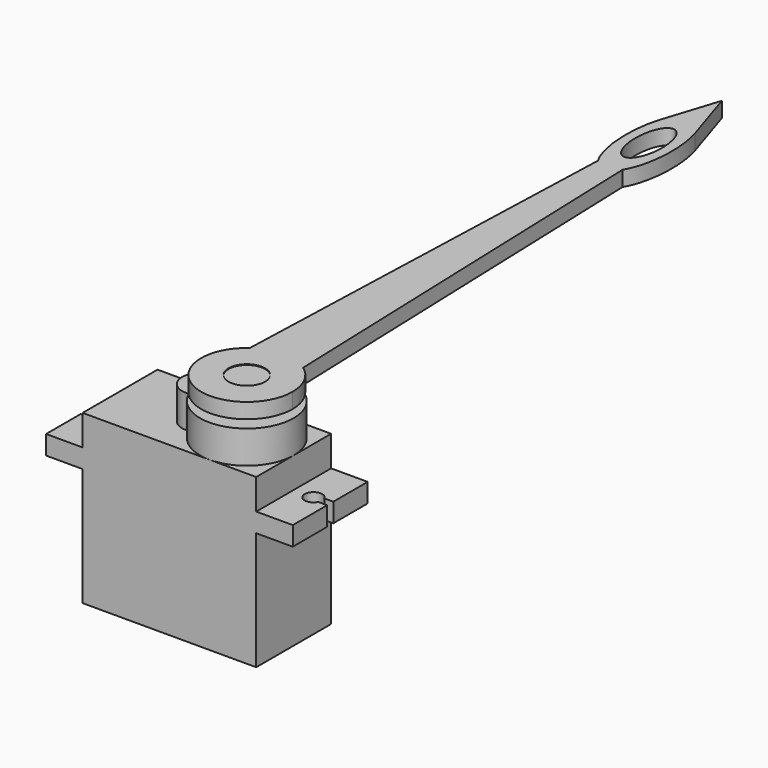
from build123d import *

# Parameters (mm, degrees)
F0_W      = 22.8
F0_H      = 12.3
F1_DEPTH  = 18
F3_DEPTH  = 2.5
F4_W      = 22.8
F4_H      = 12.3
F5_DEPTH  = 4
F7_DEPTH  = 4.3
F8_R      = 2.4
F9_DEPTH  = 2.9
F11_R     = 2.4
F12_DEPTH = 2


with BuildPart() as f1:
    # F0 (on Top) → F1 (new body)
    with BuildSketch(Plane.XY):
        with Locations((11.4, 6.15)):
            Rectangle(F0_W, F0_H)
    extrude(amount=F1_DEPTH)

    # F2 (on face) → F3 (join)
    with BuildSketch(Plane.XY.offset(18)):
        with BuildLine():
            Line((22.8, 12.3), (0, 12.3))
            Line((0, 12.3), (-4.8, 12.3))
            Line((-4.8, 12.3), (-4.8, 6.65))
            Line((-4.8, 6.65), (-3.6356157589, 6.65))
            ThreePointArc((-3.6356157589, 6.65), (-1.45, 6.15), (-3.6356157589, 5.65))
            Line((-3.6356157589, 5.65), (-4.8, 5.65))
            Line((-4.8, 5.65), (-4.8, 0))
            Line((-4.8, 0), (0, 0))
            Line((0, 0), (22.8, 0))
            Line((22.8, 0), (27.6, 0))
            Line((27.6, 0), (27.6, 5.65))
            Line((27.6, 5.65), (26.4356157589, 5.65))
            ThreePointArc((26.4356157589, 5.65), (24.25, 6.15), (26.4356157589, 6.65))
            Line((26.4356157589, 6.65), (27.6, 6.65))
            Line((27.6, 6.65), (27.6, 12.3))
            Line((27.6, 12.3), (22.8, 12.3))
        make_face()
    extrude(amount=-F3_DEPTH)

    # F4 (on face) → F5 (join)
    with BuildSketch(Plane.XY.offset(18)):
        with Locations((11.4, 6.15)):
            Rectangle(F4_W, F4_H)
    extrude(amount=F5_DEPTH)

    # F6 (on face) → F7 (join)
    with BuildSketch(Plane.XY.offset(22)):
        with BuildLine():
            Line((10.65, 3.65), (11.0310588186, 3.65))
            ThreePointArc((11.0310588186, 3.65), (22.8, 6.15), (11.0310588186, 8.65))
            Line((11.0310588186, 8.65), (10.65, 8.65))
            ThreePointArc((10.65, 8.65), (8.15, 6.15), (10.65, 3.65))
        make_face()
    extrude(amount=F7_DEPTH)

    # F8 (on face) → F9 (join)
    with BuildSketch(Plane.XY.offset(26.3)):
        with Locations((16.65, 6.15)):
            Circle(F8_R)
    extrude(amount=F9_DEPTH)


with BuildPart() as f12:
    # F11 (on offset) → F12 (new body)
    with BuildSketch(Plane.XY.offset(27.3)):
        with BuildLine():
            ThreePointArc((13.15, 11.0233971724), (13.9113872125, 0.811460874), (22.65, 6.15))
            ThreePointArc((22.65, 6.15), (21.988539126, 8.8886127875), (20.15, 11.0233971724))
            ThreePointArc((20.15, 11.0233971724), (16.65, 12.15), (13.15, 11.0233971724))
        make_face()
        with Locations((16.65, 6.15)):
            Circle(F11_R, mode=Mode.SUBTRACT)
        with BuildLine():
            ThreePointArc((13.15, 11.0233971724), (16.65, 12.15), (20.15, 11.0233971724))
            Line((20.15, 11.0233971724), (18.264289308, 65.8283753918))
            add(Edge.make_bspline(
                [(18.264289308, 65.8283753918), (21.0789576918, 70.3205840399), (18.9918742494, 76.8375)],
                knots=[0.5681770814, 0.5681770814, 0.5681770814, 2.2459278597, 2.2459278597, 2.2459278597], degree=2, weights=[1, 0.6682998373, 1]))
            Line((18.9918742494, 76.8375), (16.65, 84.15))
            Line((16.65, 84.15), (14.3081257506, 76.8375))
            add(Edge.make_bspline(
                [(14.3081257506, 76.8375), (12.2210423082, 70.3205840399), (15.035710692, 65.8283753918)],
                knots=[4.0372574474, 4.0372574474, 4.0372574474, 5.7150082258, 5.7150082258, 5.7150082258], degree=2, weights=[1, 0.6682998373, 1]))
            Line((15.035710692, 65.8283753918), (13.15, 11.0233971724))
        make_face()
        with BuildLine():
            add(Edge.make_bspline(
                [(16.65, 76.15), (13.6189110868, 76.15), (15.1344555434, 70.15), (16.65, 64.15), (18.1655444566, 70.15), (19.6810889132, 76.15), (16.65, 76.15)],
                knots=[0, 0, 0, 2.0943951024, 2.0943951024, 4.1887902048, 4.1887902048, 6.2831853072, 6.2831853072, 6.2831853072], degree=2, weights=[1, 0.5, 1, 0.5, 1, 0.5, 1]))
        make_face(mode=Mode.SUBTRACT)
    extrude(amount=F12_DEPTH)


solid = Compound([f1.part, f12.part])
